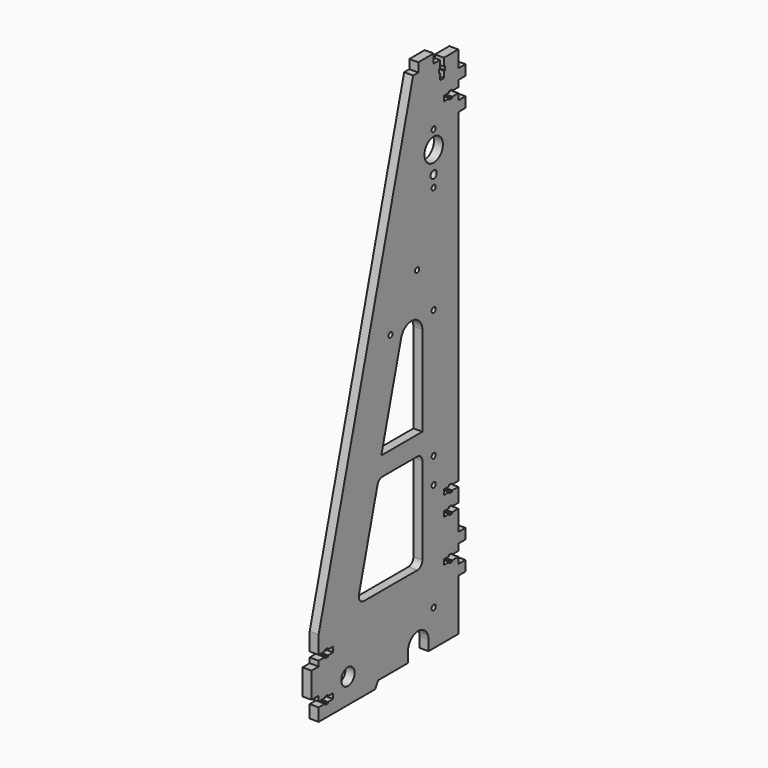
from build123d import *

# Parameters (mm, degrees)
F0_R     = 6.5
F0_R_2   = 2
F0_R_3   = 3
F0_R_4   = 9
F1_DEPTH = 7


with BuildPart() as f1:
    # F0 (on Right) → F1 (new body)
    with BuildSketch(Plane.YZ):
        with BuildLine():
            Line((55, -5), (58, 0))
            Line((58, 0), (87, 0))
            Line((87, 0), (87, 8))
            ThreePointArc((87, 8), (97, 18), (107, 8))
            Line((107, 8), (107, 0))
            Line((107, 0), (136, 0))
            Line((136, 0), (136, 40))
            Line((136, 40), (143, 40))
            Line((143, 40), (143, 48))
            Line((143, 48), (136, 48))
            Line((136, 48), (136, 53))
            Line((136, 53), (130, 53))
            Line((130, 53), (130, 52))
            Line((130, 52), (127, 52))
            Line((127, 52), (127, 53))
            Line((127, 53), (122, 53))
            Line((122, 53), (122, 55))
            Line((122, 55), (122, 57))
            Line((122, 57), (127, 57))
            Line((127, 57), (127, 58))
            Line((127, 58), (130, 58))
            Line((130, 58), (130, 57))
            Line((130, 57), (136, 57))
            Line((136, 57), (136, 62))
            Line((136, 62), (143, 62))
            Line((143, 62), (143, 70))
            Line((143, 70), (136, 70))
            Line((136, 70), (136, 86))
            Line((136, 86), (130, 86))
            Line((130, 86), (130, 85))
            Line((130, 85), (127, 85))
            Line((127, 85), (127, 86))
            Line((127, 86), (122, 86))
            Line((122, 86), (122, 88))
            Line((122, 88), (122, 90))
            Line((122, 90), (127, 90))
            Line((127, 90), (127, 91))
            Line((127, 91), (130, 91))
            Line((130, 91), (130, 90))
            Line((130, 90), (136, 90))
            Line((136, 90), (136, 101))
            Line((136, 101), (130, 101))
            Line((130, 101), (130, 100))
            Line((130, 100), (127, 100))
            Line((127, 100), (127, 101))
            Line((127, 101), (122, 101))
            Line((122, 101), (122, 103))
            Line((122, 103), (122, 105))
            Line((122, 105), (127, 105))
            Line((127, 105), (127, 106))
            Line((127, 106), (130, 106))
            Line((130, 106), (130, 105))
            Line((130, 105), (136, 105))
            Line((136, 105), (136, 358))
            Line((136, 358), (143, 358))
            Line((143, 358), (143, 366))
            Line((143, 366), (136, 366))
            Line((136, 366), (136, 371))
            Line((136, 371), (130, 371))
            Line((130, 371), (130, 370))
            Line((130, 370), (127, 370))
            Line((127, 370), (127, 371))
            Line((127, 371), (122, 371))
            Line((122, 371), (122, 373))
            Line((122, 373), (122, 375))
            Line((122, 375), (127, 375))
            Line((127, 375), (127, 376))
            Line((127, 376), (130, 376))
            Line((130, 376), (130, 375))
            Line((130, 375), (136, 375))
            Line((136, 375), (136, 380))
            Line((136, 380), (143, 380))
            Line((143, 380), (143, 388))
            Line((143, 388), (136, 388))
            Line((136, 388), (136, 401))
            Line((136, 401), (122, 401))
            Line((122, 401), (122, 395))
            Line((122, 395), (123, 395))
            Line((123, 395), (123, 392))
            Line((123, 392), (122, 392))
            Line((122, 392), (122, 387))
            Line((122, 387), (120, 387))
            Line((120, 387), (118, 387))
            Line((118, 387), (118, 392))
            Line((118, 392), (117, 392))
            Line((117, 392), (117, 395))
            Line((117, 395), (118, 395))
            Line((118, 395), (118, 401))
            Line((118, 401), (112, 401))
            Line((112, 401), (112, 408))
            Line((112, 408), (97, 408))
            Line((97, 408), (97, 401))
            Line((97, 401), (92, 401))
            Line((92, 401), (0, 55))
            Line((0, 55), (0, 41))
            Line((0, 41), (6, 41))
            Line((6, 41), (6, 42))
            Line((6, 42), (9, 42))
            Line((9, 42), (9, 41))
            Line((9, 41), (14, 41))
            Line((14, 41), (14, 39))
            Line((14, 39), (14, 37))
            Line((14, 37), (9, 37))
            Line((9, 37), (9, 36))
            Line((9, 36), (6, 36))
            Line((6, 36), (6, 37))
            Line((6, 37), (0, 37))
            Line((0, 37), (0, 33))
            Line((0, 33), (-7, 33))
            Line((-7, 33), (-7, 23))
            Line((-7, 23), (-7, 13))
            Line((-7, 13), (0, 13))
            Line((0, 13), (0, 9))
            Line((0, 9), (6, 9))
            Line((6, 9), (6, 10))
            Line((6, 10), (9, 10))
            Line((9, 10), (9, 9))
            Line((9, 9), (14, 9))
            Line((14, 9), (14, 7))
            Line((14, 7), (14, 5))
            Line((14, 5), (9, 5))
            Line((9, 5), (9, 4))
            Line((9, 4), (6, 4))
            Line((6, 4), (6, 5))
            Line((6, 5), (0, 5))
            Line((0, 5), (0, 0))
            Line((0, 0), (0, -5))
            Line((0, -5), (55, -5))
        make_face()
        with Locations((28.5, 14.5)):
            Circle(F0_R, mode=Mode.SUBTRACT)
        with Locations((112, 28)):
            Circle(F0_R_2, mode=Mode.SUBTRACT)
        with BuildLine():
            ThreePointArc((57.29765, 134.284836), (59.082144, 136.963848), (62.129751, 138))
            Line((62.129751, 138), (96, 138))
            ThreePointArc((96, 138), (99.535534, 136.535534), (101, 133))
            Line((101, 133), (101, 65))
            ThreePointArc((101, 65), (99.535534, 61.464466), (96, 60))
            Line((96, 60), (44.048826, 60))
            ThreePointArc((44.048826, 60), (40.084978, 61.952393), (39.216725, 66.284836))
            Line((39.216725, 66.284836), (57.29765, 134.284836))
        make_face(mode=Mode.SUBTRACT)
        with BuildLine():
            Line((101, 223), (101, 153))
            Line((101, 153), (61, 153))
            Line((61, 153), (80.27254, 225.481509))
            ThreePointArc((80.27254, 225.481509), (91.713641, 233.239781), (101, 223))
        make_face(mode=Mode.SUBTRACT)
        with Locations((112, 112)):
            Circle(F0_R_2, mode=Mode.SUBTRACT)
        with Locations((112, 132)):
            Circle(F0_R_2, mode=Mode.SUBTRACT)
        with Locations((70, 232)):
            Circle(F0_R_2, mode=Mode.SUBTRACT)
        with Locations((95.884576, 265.975365)):
            Circle(F0_R_2, mode=Mode.SUBTRACT)
        with Locations((112, 232)):
            Circle(F0_R_2, mode=Mode.SUBTRACT)
        with Locations((112, 316)):
            Circle(F0_R_2, mode=Mode.SUBTRACT)
        with Locations((112, 325)):
            Circle(F0_R_3, mode=Mode.SUBTRACT)
        with Locations((112, 342)):
            Circle(F0_R_4, mode=Mode.SUBTRACT)
        with Locations((112, 356)):
            Circle(F0_R_2, mode=Mode.SUBTRACT)
    extrude(amount=F1_DEPTH)


solid = f1.part
